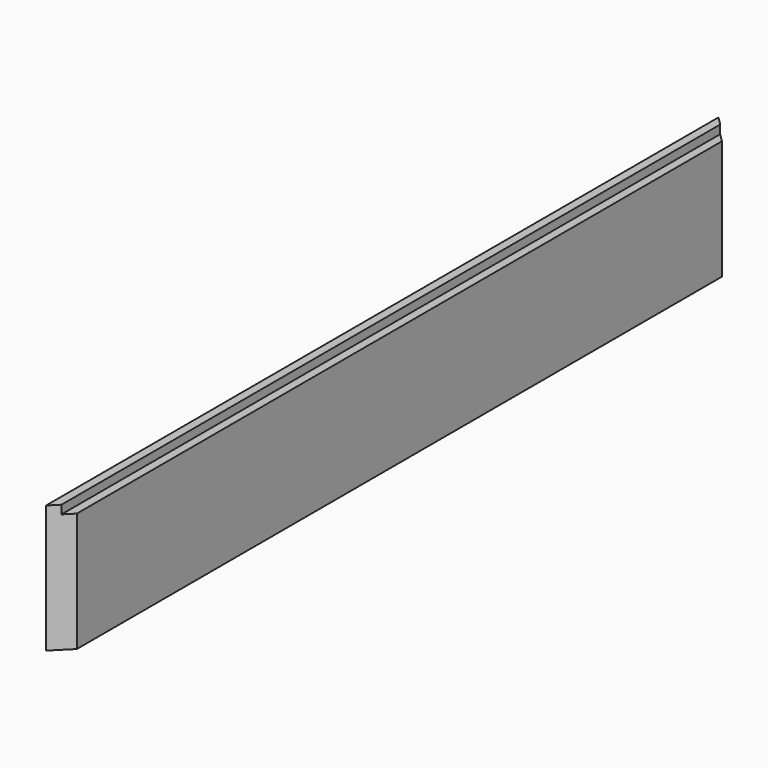
from build123d import *

# Parameters (mm, degrees)
F0_W     = 38.277834
F0_H     = 285.75
F1_DEPTH = 1879.6
F2_SIZE  = 38.1
F3_W     = 1841.5
F3_H     = 19.05
F4_DEPTH = 19.05


with BuildPart() as f1:
    # F0 (on Front) → F1 (new body)
    with BuildSketch(Plane.XZ):
        Rectangle(F0_W, F0_H)
    extrude(amount=F1_DEPTH)

    # F2
    f2_edges = [f1.edges().sort_by_distance(p)[0] for p in [
        (19.138917, -1879.6, 0),
        (19.138917, 0, 0),
    ]]
    chamfer(f2_edges, length=F2_SIZE)

    # F3 (on face) → F4 (cut)
    with BuildSketch(Plane.YZ.offset(19.138917)):
        with Locations((-939.8, 133.35)):
            Rectangle(F3_W, F3_H)
    extrude(amount=-F4_DEPTH, mode=Mode.SUBTRACT)


solid = f1.part
